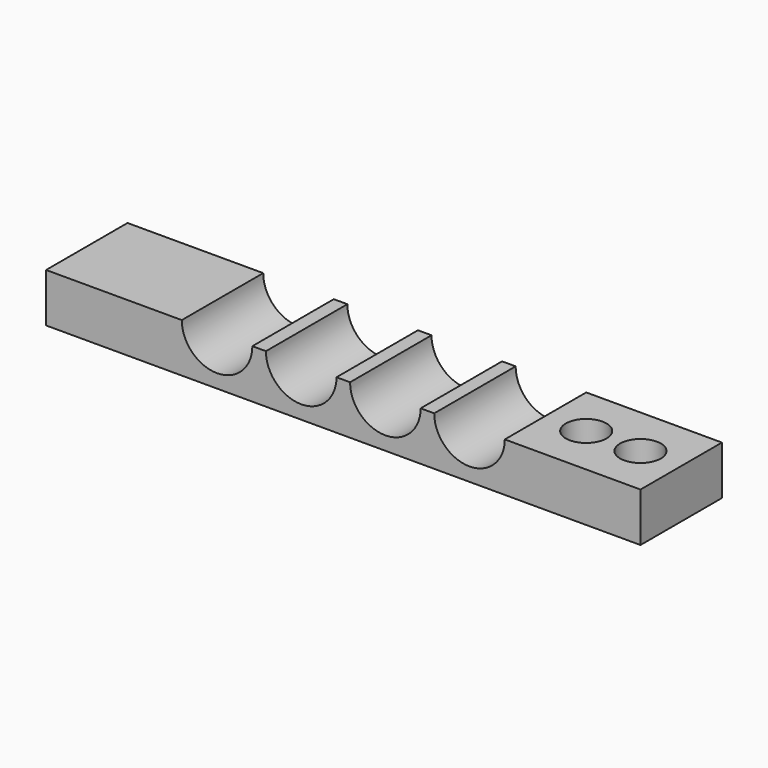
from build123d import *

# Parameters (mm, degrees)
F1_DEPTH = 7.5
F2_R     = 1.5
F3_DEPTH = 25


with BuildPart() as f1:
    # F0 (on Front) → F1 (new body)
    with BuildSketch(Plane.XZ):
        with BuildLine():
            Line((21.9, 3.6), (11.9, 3.6))
            ThreePointArc((11.9, 3.6), (9.3, 1), (6.7, 3.6))
            Line((6.7, 3.6), (5.7, 3.6))
            ThreePointArc((5.7, 3.6), (3.1, 1), (0.5, 3.6))
            Line((0.5, 3.6), (-0.5, 3.6))
            ThreePointArc((-0.5, 3.6), (-3.1, 1), (-5.7, 3.6))
            Line((-5.7, 3.6), (-6.7, 3.6))
            ThreePointArc((-6.7, 3.6), (-9.3, 1), (-11.9, 3.6))
            Line((-11.9, 3.6), (-21.9, 3.6))
            Line((-21.9, 3.6), (-21.9, 0))
            Line((-21.9, 0), (21.9, 0))
            Line((21.9, 0), (21.9, 3.6))
        make_face()
    extrude(amount=F1_DEPTH)

    # F2 (on face) → F3 (cut)
    with BuildSketch(Plane.XY.offset(3.6)):
        with Locations((18.9, -3.75)):
            Circle(F2_R)
        with Locations((14.9, -3.75)):
            Circle(F2_R)
    extrude(amount=-F3_DEPTH, mode=Mode.SUBTRACT)


solid = f1.part
